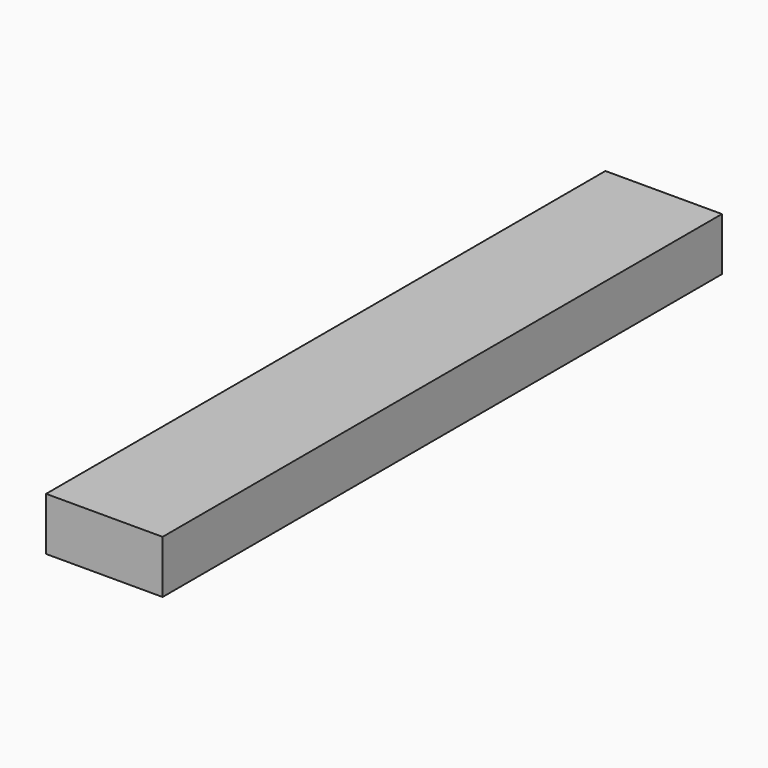
from build123d import *

# Parameters (mm, degrees)
SKETCH083_W   = 9
SKETCH083_H   = 64
PAD058_DEPTH  = 1
SKETCH084_W   = 9
SKETCH084_H   = 64
SKETCH084_W_2 = 7
SKETCH084_H_2 = 62
PAD059_DEPTH  = 3
BOX003_W      = 11
BOX003_H      = 66
BOX003_DEPTH  = 5


with BuildPart() as sidemold001:
    # Sketch083 → Pad058 (new body)
    with BuildSketch(Plane.XY):
        Rectangle(SKETCH083_W, SKETCH083_H)
    extrude(amount=PAD058_DEPTH)

    # Sketch084 (on Face6 of Pad058) → Pad059 (join)
    with BuildSketch(Plane.XY.offset(1)):
        Rectangle(SKETCH084_W, SKETCH084_H)
        Rectangle(SKETCH084_W_2, SKETCH084_H_2, mode=Mode.SUBTRACT)
    extrude(amount=PAD059_DEPTH)


with BuildPart() as sidemold001_1:
    # Body026 placement: moved
    add(sidemold001.part.moved(Location((150, 35, 0))))


with BuildPart() as long_side_mold:
    # Box003 → Box003 (new body)
    with BuildSketch(Plane(origin=(144.5, 2, 0), x_dir=(1, 0, 0), z_dir=(0, 0, 1))):
        with Locations((5.5, 33)):
            Rectangle(BOX003_W, BOX003_H)
    extrude(amount=BOX003_DEPTH)

    # Cut003: cut SideMold001
    add(sidemold001_1.part, mode=Mode.SUBTRACT)


with BuildPart() as long_side_mold_1:
    # Cut003 placement: moved
    add(long_side_mold.part.moved(Location((0, -19, 0))))


solid = long_side_mold_1.part
